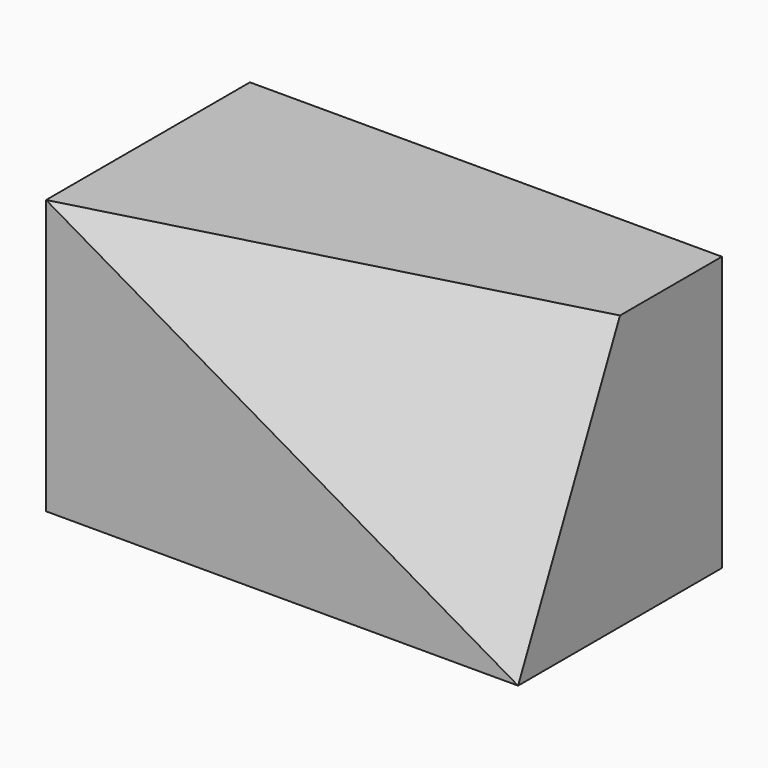
from build123d import *

# Parameters (mm, degrees)
F0_W     = 107.5904648751
F0_H     = 58.0795463175
F1_DEPTH = 62.484
F5_DEPTH = 25.580507825


with BuildPart() as f1:
    # F0 (on Top) → F1 (new body)
    with BuildSketch(Plane.XY):
        with Locations((-23.0818474665, -36.7515804246)):
            Rectangle(F0_W, F0_H)
    extrude(amount=F1_DEPTH)

    # F4 (on 3pt) → F5 (cut, through all)
    with BuildSketch(Plane(origin=(15.5140591861, -57.4785770814, 26.7134760888), x_dir=(-0.9713266654, -0.2156016365, 0.1002020136), z_dir=(-0.2377488363, 0.8808439269, -0.4093769257))):
        Polygon((-15.6480063064, -27.7285315311), (95.1185037804, 28.9348484531), (-15.6480063064, 41.1739987644), align=None)
    extrude(amount=-F5_DEPTH, mode=Mode.SUBTRACT)


solid = f1.part
